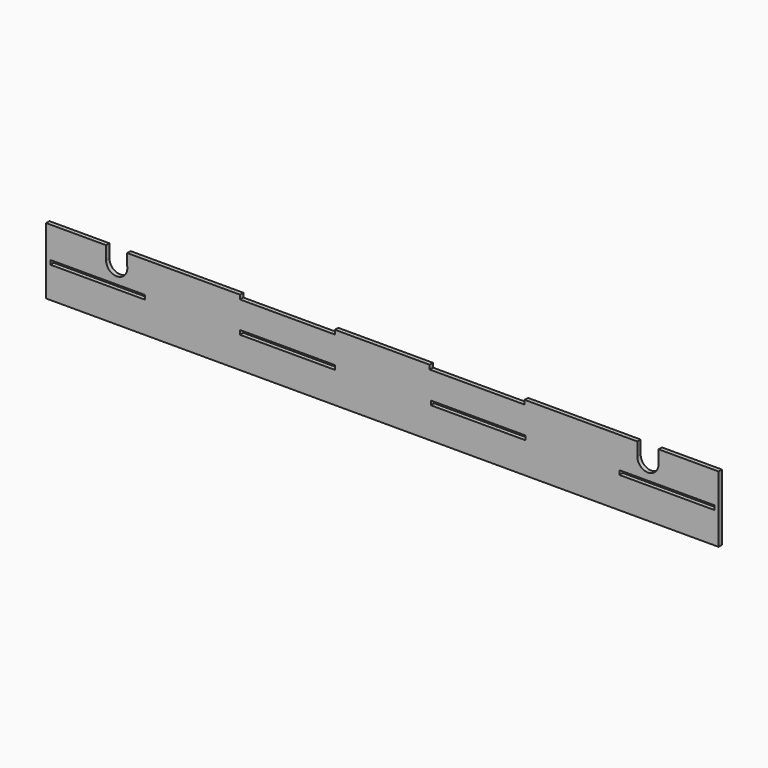
from build123d import *

# Parameters (mm, degrees)
F0_W     = 71.4285714286
F0_H     = 3.175
F1_DEPTH = 3.175


with BuildPart() as f1:
    # F0 (on Front) → F1 (new body)
    with BuildSketch(Plane.XZ):
        Polygon((-341.9539034367, -50.9066917002), (-338.7789034367, -50.9066917002), (-338.7789034367, -27.4962503463), (-338.7789034367, -24.3212503463), (-338.7789034367, -4.0837503463), (-338.7789034367, -0.9087503463), (-341.9539034367, -0.9087503463), align=None)
        Polygon((161.2210965633, -27.4962503463), (161.2210965633, -50.9087503463), (164.3960965633, -50.9170331061), (164.3960965633, -0.9087503463), (161.2210965633, -0.9087503463), (161.2210965633, -4.0837503463), (161.2210965633, -24.3212503463), align=None)
        with BuildLine():
            Line((-338.7789034367, -50.9087503463), (161.2210965633, -50.9087503463))
            Line((161.2210965633, -50.9087503463), (161.2210965633, -27.4962503463))
            Line((161.2210965633, -27.4962503463), (89.7925251348, -27.4962503463))
            Line((89.7925251348, -27.4962503463), (89.7925251348, -24.3212503463))
            Line((89.7925251348, -24.3212503463), (161.2210965633, -24.3212503463))
            Line((161.2210965633, -24.3212503463), (161.2210965633, -4.0837503463))
            Line((161.2210965633, -4.0837503463), (161.2210965633, -0.9087503463))
            Line((161.2210965633, -0.9087503463), (119.2571139812, -0.9087503463))
            Line((119.2571139812, -0.9087503463), (119.2571139812, -11.0911041506))
            Line((119.2571139812, -11.0911041506), (119.2190179864, -11.0911041506))
            ThreePointArc((119.2190179864, -11.0911041506), (111.2210965633, -18.9087503463), (103.2231751402, -11.0911041506))
            ThreePointArc((103.2231751402, -11.0911041506), (103.2210965633, -10.9087503463), (103.2231751402, -10.726396542))
            Line((103.2231751402, -10.726396542), (103.2231751402, -0.9087503463))
            Line((103.2231751402, -0.9087503463), (89.7925251348, -0.9087503463))
            Line((89.7925251348, -0.9087503463), (18.3639537062, -0.9087503463))
            Line((18.3639537062, -0.9087503463), (18.3639537062, -4.0837503463))
            Line((18.3639537062, -4.0837503463), (-53.0646177224, -4.0837503463))
            Line((-53.0646177224, -4.0837503463), (-53.0646177224, -0.9087503463))
            Line((-53.0646177224, -0.9087503463), (-124.4931891509, -0.9087503463))
            Line((-124.4931891509, -0.9087503463), (-124.4931891509, -4.0837503463))
            Line((-124.4931891509, -4.0837503463), (-195.9217605795, -4.0837503463))
            Line((-195.9217605795, -4.0837503463), (-195.9217605795, -0.9087503463))
            Line((-195.9217605795, -0.9087503463), (-267.3503320081, -0.9087503463))
            Line((-267.3503320081, -0.9087503463), (-280.8719881892, -0.9087503463))
            Line((-280.8719881892, -0.9087503463), (-280.8719881892, -9.6919137633))
            ThreePointArc((-280.8719881892, -9.6919137633), (-280.8022085704, -10.2985544677), (-280.7789034367, -10.9087503463))
            ThreePointArc((-280.7789034367, -10.9087503463), (-288.5881253638, -18.9064752557), (-296.7698043684, -11.2901979827))
            ThreePointArc((-296.7698043684, -11.2901979827), (-296.7789034367, -10.9087503463), (-296.7698043684, -10.5273027099))
            Line((-296.7698043684, -10.5273027099), (-296.7698043684, -0.9087503463))
            Line((-296.7698043684, -0.9087503463), (-338.7789034367, -0.9087503463))
            Line((-338.7789034367, -0.9087503463), (-338.7789034367, -4.0837503463))
            Line((-338.7789034367, -4.0837503463), (-338.7789034367, -24.3212503463))
            Line((-338.7789034367, -24.3212503463), (-267.3503320081, -24.3212503463))
            Line((-267.3503320081, -24.3212503463), (-267.3503320081, -27.4962503463))
            Line((-267.3503320081, -27.4962503463), (-338.7789034367, -27.4962503463))
            Line((-338.7789034367, -27.4962503463), (-338.7789034367, -50.9066917002))
            Line((-338.7789034367, -50.9066917002), (-338.7789034367, -50.9087503463))
        make_face()
        with Locations((-160.2074748652, -25.9087503463)):
            Rectangle(F0_W, F0_H, mode=Mode.SUBTRACT)
        with Locations((-16.5355952723, -25.9087503463)):
            Rectangle(F0_W, F0_H, mode=Mode.SUBTRACT)
    extrude(amount=F1_DEPTH)


solid = f1.part
